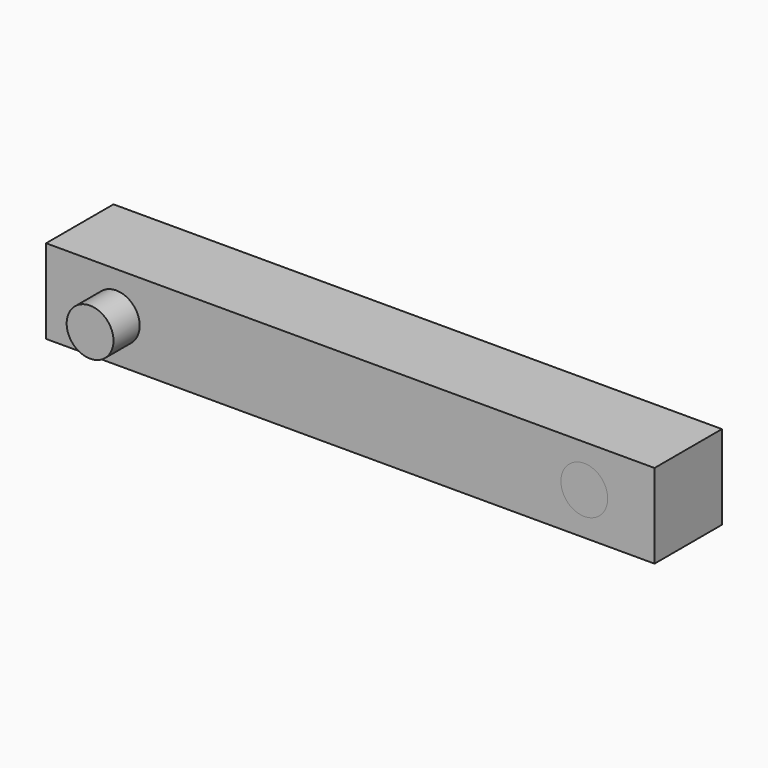
from build123d import *

# Parameters (mm, degrees)
F0_W     = 65
F0_H     = 9
F0_R     = 2.5
F1_DEPTH = 9
F2_DEPTH = 12.5
F3_W     = 7.776277
F3_H     = 9
F4_DEPTH = 25


with BuildPart() as f1:
    # F0 (on Front) → F1 (new body)
    with BuildSketch(Plane.XZ):
        with Locations((-32.5, 4.5)):
            Rectangle(F0_W, F0_H)
        with Locations((-57.5, 4.5)):
            Circle(F0_R, mode=Mode.SUBTRACT)
        with Locations((-7.5, 4.5)):
            Circle(F0_R, mode=Mode.SUBTRACT)
    extrude(amount=F1_DEPTH)

    # F0 (on Front) → F2 (join)
    with BuildSketch(Plane.XZ):
        with Locations((-57.5, 4.5)):
            Circle(F0_R)
        with Locations((-7.5, 4.5)):
            Circle(F0_R)
    extrude(amount=F2_DEPTH)

    # F3 (on face) → F4 (cut)
    with BuildSketch(Plane.YZ):
        with Locations((-12.888139, 4.5)):
            Rectangle(F3_W, F3_H)
    extrude(amount=-F4_DEPTH, mode=Mode.SUBTRACT)


solid = f1.part
